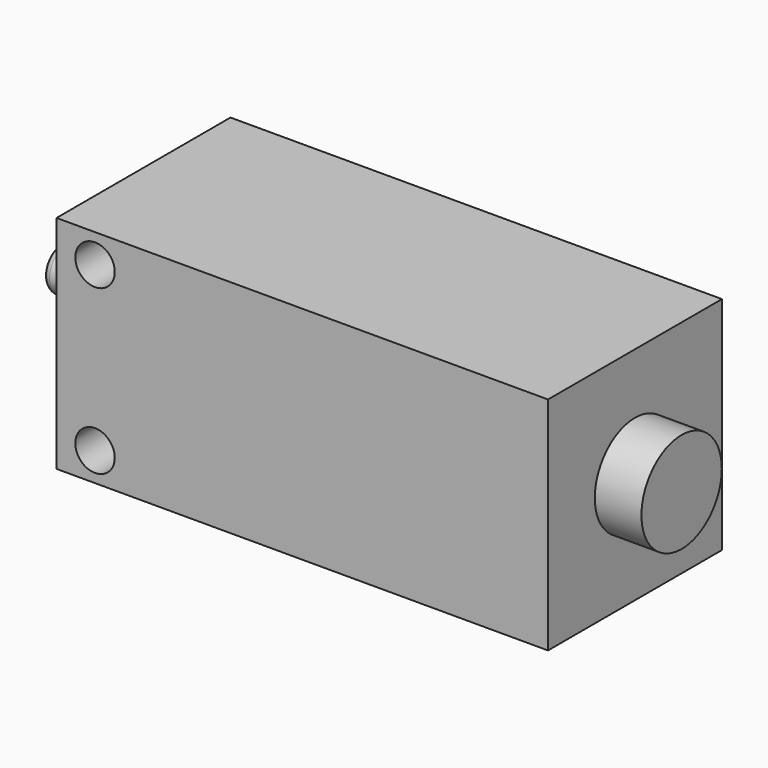
from build123d import *

# Parameters (mm, degrees)
F0_W     = 68.5
F0_H     = 30.3
F1_DEPTH = 30.8
F2_R     = 7.9
F3_DEPTH = 3.7
F4_R     = 7
F5_DEPTH = 6.5
F7_D     = 5.5
F8_R     = 3
F9_DEPTH = 8
F10_R    = 1


with BuildPart() as f1:
    # F0 (on Top) → F1 (new body)
    with BuildSketch(Plane.XY):
        Rectangle(F0_W, F0_H)
    extrude(amount=F1_DEPTH)

    # F2 (on face) → F3 (join)
    with BuildSketch(Plane(origin=(-34.25, 0, 0), x_dir=(0, -1, 0), z_dir=(-1, 0, 0))):
        with Locations((0, 14.9)):
            Circle(F2_R)
    extrude(amount=F3_DEPTH)

    # F4 (on face) → F5 (join)
    with BuildSketch(Plane.YZ.offset(34.25)):
        with Locations((0, 15.4)):
            Circle(F4_R)
    extrude(amount=F5_DEPTH)

    # F7 (through all)
    with Locations(Plane(origin=(0, 15.15, 0), x_dir=(-1, 0, 0), z_dir=(0, 1, 0))):
        with Locations((28.8861435714, 26.8), (28.8861435714, 4)):
            Hole(F7_D / 2)

    # F8 (on face) → F9 (join)
    with BuildSketch(Plane(origin=(-37.95, 0, 0), x_dir=(0, -1, 0), z_dir=(-1, 0, 0))):
        with Locations((0, 14.9)):
            Circle(F8_R)
    extrude(amount=F9_DEPTH)

    # F10
    f10_edges = [f1.edges().sort_by_distance(p)[0] for p in [
        (-45.95, 3, 14.9),
    ]]
    fillet(f10_edges, radius=F10_R)


solid = f1.part
